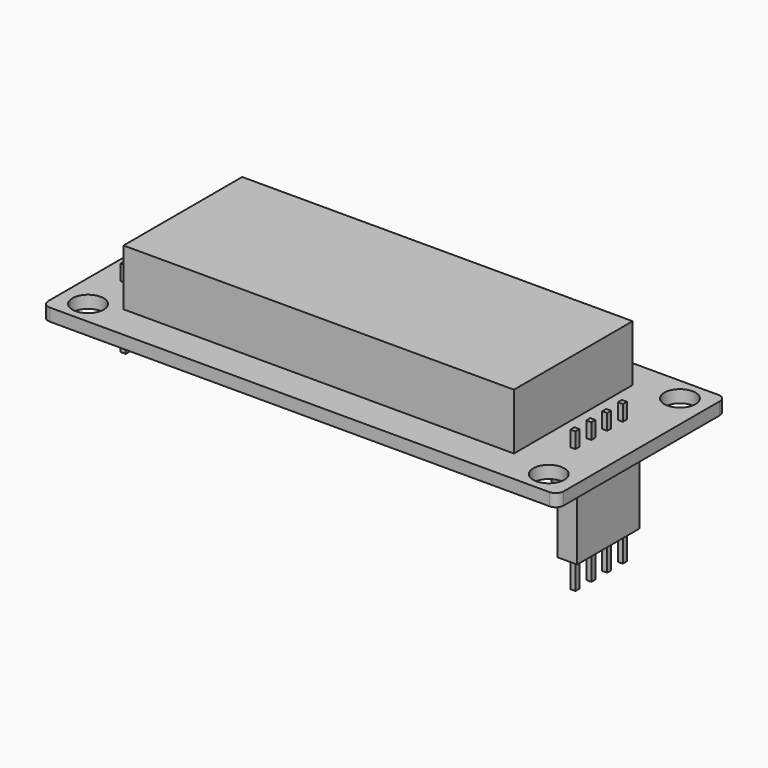
from build123d import *

# Parameters (mm, degrees)
SKETCH002_W   = 66
SKETCH002_H   = 27
SKETCH002_R   = 2
PAD_DEPTH     = 1.6
FILLET_R      = 1
SKETCH_W      = 50
SKETCH_H      = 19
PAD001_DEPTH  = 7.2
SKETCH003_W   = 2.54
SKETCH003_H   = 10
SKETCH003_W_2 = 2.8
PAD002_DEPTH  = 2.54
FILLET001_R   = 0.5
SKETCH004_W   = 0.64
SKETCH004_H   = 0.64
PAD003_DEPTH  = 10
SKETCH005_W   = 66
SKETCH005_H   = 27
SKETCH005_R   = 2
PAD004_DEPTH  = 1.6
FILLET002_R   = 1
SKETCH006_W   = 50
SKETCH006_H   = 19
PAD005_DEPTH  = 7.2
SKETCH007_W   = 2.54
SKETCH007_H   = 10
PAD006_DEPTH  = 2.54
FILLET003_R   = 1
SKETCH008_W   = 0.64
SKETCH008_H   = 0.64
EXTRUDE_DEPTH = 18
PAD007_DEPTH  = 8.2


with BuildPart() as body:
    # Sketch002 → Pad (new body)
    with BuildSketch(Plane.XY):
        with Locations((33, 13.5)):
            Rectangle(SKETCH002_W, SKETCH002_H)
        with Locations((3.5, 3)):
            Circle(SKETCH002_R, mode=Mode.SUBTRACT)
        with Locations((3.5, 24)):
            Circle(SKETCH002_R, mode=Mode.SUBTRACT)
        with Locations((62.5, 24)):
            Circle(SKETCH002_R, mode=Mode.SUBTRACT)
        with Locations((62.5, 3)):
            Circle(SKETCH002_R, mode=Mode.SUBTRACT)
    extrude(amount=PAD_DEPTH)

    # Fillet
    fillet_edges = [body.edges().sort_by_distance(p)[0] for p in [
        (0, 0, 0.8),
        (0, 27, 0.8),
        (66, 0, 0.8),
        (66, 27, 0.8),
    ]]
    fillet(fillet_edges, radius=FILLET_R)

    # Sketch → Pad001 (join)
    with BuildSketch(Plane.XY.offset(1.6)):
        with Locations((32, 13.8)):
            Rectangle(SKETCH_W, SKETCH_H)
    extrude(amount=PAD001_DEPTH)

    # Sketch003 → Pad002 (join)
    with BuildSketch(Plane.XY):
        with Locations((3.27, 13)):
            Rectangle(SKETCH003_W, SKETCH003_H)
        with Locations((60, 13)):
            Rectangle(SKETCH003_W_2, SKETCH003_H)
    extrude(amount=-PAD002_DEPTH)

    # Fillet001
    fillet001_edges = [body.edges().sort_by_distance(p)[0] for p in [
        (2, 8, -1.27),
        (4.54, 8, -1.27),
        (2, 18, -1.27),
        (4.54, 18, -1.27),
        (61.4, 8, -1.27),
        (58.6, 8, -1.27),
        (58.6, 18, -1.27),
        (61.4, 18, -1.27),
    ]]
    fillet(fillet001_edges, radius=FILLET001_R)

    # Sketch004 → Pad003 (join)
    with BuildSketch(Plane.XY.offset(3.6)):
        with Locations((3.29, 16.79)):
            Rectangle(SKETCH004_W, SKETCH004_H)
        with Locations((3.29, 14.29)):
            Rectangle(SKETCH004_W, SKETCH004_H)
        with Locations((3.29, 11.75)):
            Rectangle(SKETCH004_W, SKETCH004_H)
        with Locations((3.29, 9.21)):
            Rectangle(SKETCH004_W, SKETCH004_H)
    extrude(amount=-PAD003_DEPTH)


with BuildPart() as board001:
    # Sketch005 → Pad004 (new body)
    with BuildSketch(Plane.XY):
        with Locations((33, 13.5)):
            Rectangle(SKETCH005_W, SKETCH005_H)
        with Locations((3.5, 3)):
            Circle(SKETCH005_R, mode=Mode.SUBTRACT)
        with Locations((3.5, 24)):
            Circle(SKETCH005_R, mode=Mode.SUBTRACT)
        with Locations((62.5, 24)):
            Circle(SKETCH005_R, mode=Mode.SUBTRACT)
        with Locations((62.5, 3)):
            Circle(SKETCH005_R, mode=Mode.SUBTRACT)
    extrude(amount=PAD004_DEPTH)

    # Fillet002
    fillet002_edges = [board001.edges().sort_by_distance(p)[0] for p in [
        (0, 27, 0.8),
        (0, 0, 0.8),
        (66, 0, 0.8),
        (66, 27, 0.8),
    ]]
    fillet(fillet002_edges, radius=FILLET002_R)


with BuildPart() as led001:
    # Sketch006 → Pad005 (new body)
    with BuildSketch(Plane.XY.offset(1.6)):
        with Locations((32, 13.8)):
            Rectangle(SKETCH006_W, SKETCH006_H)
    extrude(amount=PAD005_DEPTH)


with BuildPart() as pin_plastic_clone:
    # Sketch007 → Pad006 (new body)
    with BuildSketch(Plane.XY):
        with Locations((3.27, 13)):
            Rectangle(SKETCH007_W, SKETCH007_H)
    extrude(amount=-PAD006_DEPTH)

    # Fillet003
    fillet003_edges = [pin_plastic_clone.edges().sort_by_distance(p)[0] for p in [
        (2, 8, -1.27),
        (2, 18, -1.27),
        (4.54, 8, -1.27),
        (4.54, 18, -1.27),
    ]]
    fillet(fillet003_edges, radius=FILLET003_R)


with BuildPart() as pin_plastic_clone_1:
    # Body004 placement: moved
    add(pin_plastic_clone.part.moved(Location((57.62, 0, 0))))


with BuildPart() as extrude_clone:
    # Sketch008 → Extrude (new body)
    with BuildSketch(Plane.XY.offset(3.6)):
        with Locations((3.29, 16.79)):
            Rectangle(SKETCH008_W, SKETCH008_H)
        with Locations((3.29, 14.29)):
            Rectangle(SKETCH008_W, SKETCH008_H)
        with Locations((3.29, 11.75)):
            Rectangle(SKETCH008_W, SKETCH008_H)
        with Locations((3.29, 9.21)):
            Rectangle(SKETCH008_W, SKETCH008_H)
    extrude(amount=EXTRUDE_DEPTH)


with BuildPart() as extrude_clone_1:
    # Extrude placement: moved
    add(extrude_clone.part.moved(Location((0, 0, -18))))


with BuildPart() as extrude_clone_2:
    # Body008 placement: moved
    add(extrude_clone_1.part.moved(Location((57.6, 0, 0))))


with BuildPart() as pin_plastic_extend_clone:
    # Sketch007 → Pad007 (new body)
    with BuildSketch(Plane.XY):
        with Locations((3.27, 13)):
            Rectangle(SKETCH007_W, SKETCH007_H)
    extrude(amount=-PAD007_DEPTH)


with BuildPart() as pin_plastic_extend_clone_1:
    # Body007 placement: moved
    add(pin_plastic_extend_clone.part.moved(Location((0, 0, -2.55))))


with BuildPart() as pin_plastic_extend_clone_2:
    # Body009 placement: moved
    add(pin_plastic_extend_clone_1.part.moved(Location((57.6, 0, 0))))


solid = Compound([body.part, board001.part, led001.part, pin_plastic_clone_1.part, extrude_clone_2.part, pin_plastic_extend_clone_2.part])
